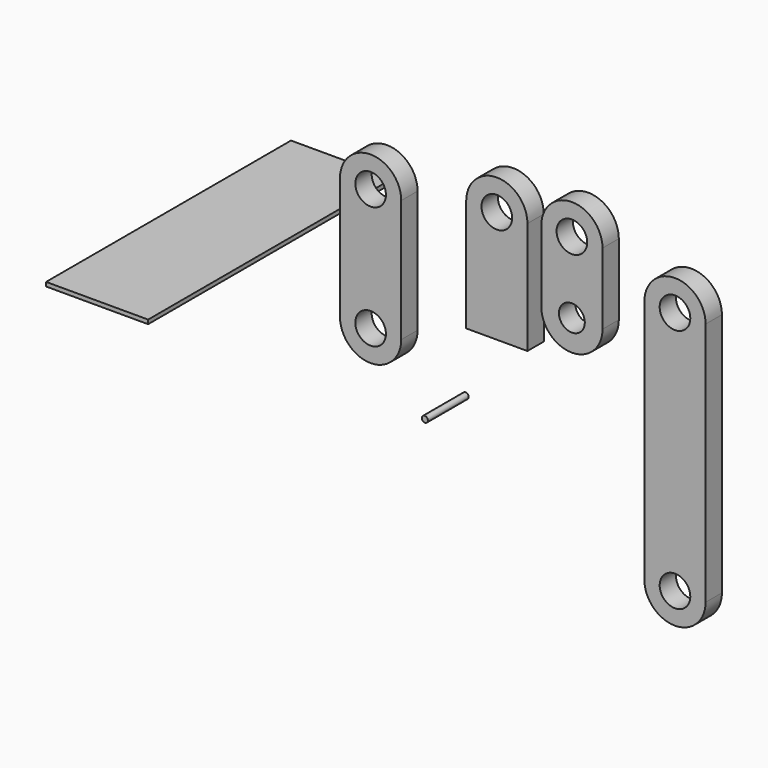
from build123d import *

# Parameters (mm, degrees)
F0_R      = 7.5
F1_DEPTH  = 10
F2_R      = 7.5
F3_DEPTH  = 10
F4_R      = 6.334128
F4_R_2    = 7.5
F5_DEPTH  = 10
F6_R      = 7.5
F7_DEPTH  = 10
F8_W      = 50
F8_H      = 150
F9_DEPTH  = 2
F10_R     = 1.5
F11_DEPTH = 25


with BuildPart() as f1:
    # F0 (on Front) → F1 (new body)
    with BuildSketch(Plane.XZ):
        with BuildLine():
            Line((15, 0), (15, 55))
            ThreePointArc((15, 55), (0, 70), (-15, 55))
            Line((-15, 55), (-15, 0))
            Line((-15, 0), (15, 0))
        make_face()
        with Locations((0, 55)):
            Circle(F0_R, mode=Mode.SUBTRACT)
    extrude(amount=F1_DEPTH)


with BuildPart() as f3:
    # F2 (on Front) → F3 (new body)
    with BuildSketch(Plane.XZ):
        with BuildLine():
            Line((-46.831526, -15.18975), (-46.831526, 44.81025))
            ThreePointArc((-46.831526, 44.81025), (-61.831526, 59.81025), (-76.831526, 44.81025))
            Line((-76.831526, 44.81025), (-76.831526, -15.18975))
            ThreePointArc((-76.831526, -15.18975), (-61.831526, -30.18975), (-46.831526, -15.18975))
        make_face()
        with Locations((-61.831526, -15.18975)):
            Circle(F2_R, mode=Mode.SUBTRACT)
        with Locations((-61.831526, 44.81025)):
            Circle(F2_R, mode=Mode.SUBTRACT)
    extrude(amount=F3_DEPTH)


with BuildPart() as f5:
    # F4 (on Front) → F5 (new body)
    with BuildSketch(Plane.XZ):
        with BuildLine():
            Line((51.77831, 21.373001), (51.77831, 56.373001))
            ThreePointArc((51.77831, 56.373001), (36.77831, 71.373001), (21.77831, 56.373001))
            Line((21.77831, 56.373001), (21.77831, 21.373001))
            ThreePointArc((21.77831, 21.373001), (36.77831, 6.373001), (51.77831, 21.373001))
        make_face()
        with Locations((36.77831, 21.373001)):
            Circle(F4_R, mode=Mode.SUBTRACT)
        with Locations((36.77831, 56.373001)):
            Circle(F4_R_2, mode=Mode.SUBTRACT)
    extrude(amount=F5_DEPTH)


with BuildPart() as f7:
    # F6 (on Front) → F7 (new body)
    with BuildSketch(Plane.XZ):
        with BuildLine():
            Line((102.299824, -79.976364), (102.299824, 40.023636))
            ThreePointArc((102.299824, 40.023636), (87.299824, 55.023636), (72.299824, 40.023636))
            Line((72.299824, 40.023636), (72.299824, -79.976364))
            ThreePointArc((72.299824, -79.976364), (87.299824, -94.976364), (102.299824, -79.976364))
        make_face()
        with Locations((87.299824, -79.976364)):
            Circle(F6_R, mode=Mode.SUBTRACT)
        with Locations((87.299824, 40.023636)):
            Circle(F6_R, mode=Mode.SUBTRACT)
    extrude(amount=F7_DEPTH)


with BuildPart() as f9:
    # F8 (on Top) → F9 (new body)
    with BuildSketch(Plane.XY):
        with Locations((-137.206855, -8.310452)):
            Rectangle(F8_W, F8_H)
    extrude(amount=F9_DEPTH)


with BuildPart() as f11:
    # F10 (on Front) → F11 (new body)
    with BuildSketch(Plane.XZ):
        with Locations((-23.267521, -35.777029)):
            Circle(F10_R)
    extrude(amount=F11_DEPTH)


solid = Compound([f1.part, f3.part, f5.part, f7.part, f9.part, f11.part])
